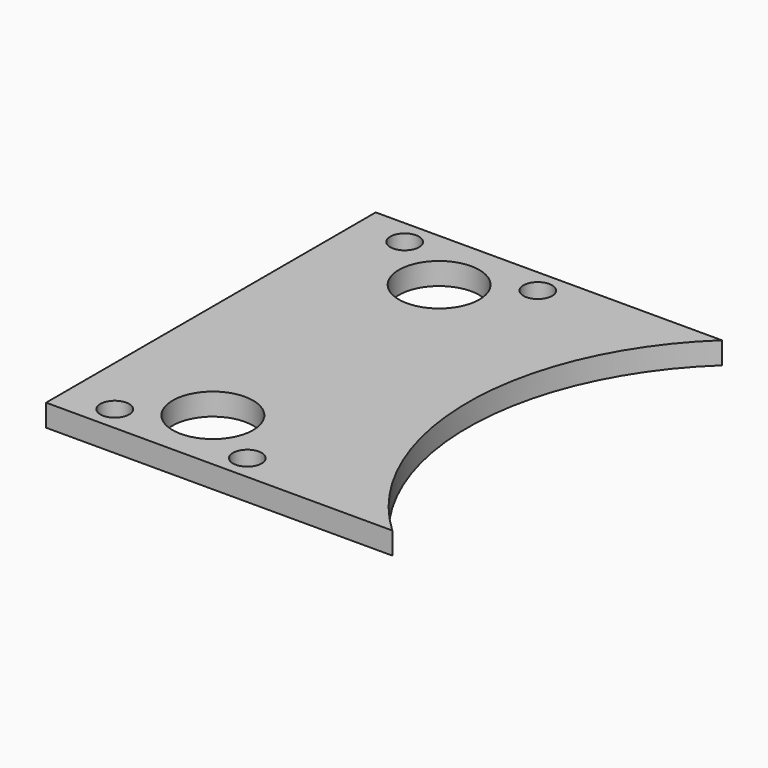
from build123d import *

# Parameters (mm, degrees)
F1_R     = 3.25
F1_R_2   = 9.1
F2_DEPTH = 5


with BuildPart() as f2:
    # F1 (on Top) → F2 (new body)
    with BuildSketch(Plane.XY):
        with BuildLine():
            ThreePointArc((-43.690965, -46.629492), (-63.9, 0), (-43.690965, 46.629492))
            Line((-43.690965, 46.629492), (-122.045048, 46.629492))
            Line((-122.045048, 46.629492), (-122.045048, -46.629492))
            Line((-122.045048, -46.629492), (-43.690965, -46.629492))
        make_face()
        with Locations((-111, -41)):
            Circle(F1_R, mode=Mode.SUBTRACT)
        with Locations((-81, -41)):
            Circle(F1_R, mode=Mode.SUBTRACT)
        with Locations((-96, -32)):
            Circle(F1_R_2, mode=Mode.SUBTRACT)
        with Locations((-111, 41)):
            Circle(F1_R, mode=Mode.SUBTRACT)
        with Locations((-96, 32)):
            Circle(F1_R_2, mode=Mode.SUBTRACT)
        with Locations((-80.981895, 41.154403)):
            Circle(F1_R, mode=Mode.SUBTRACT)
    extrude(amount=F2_DEPTH)


solid = f2.part
